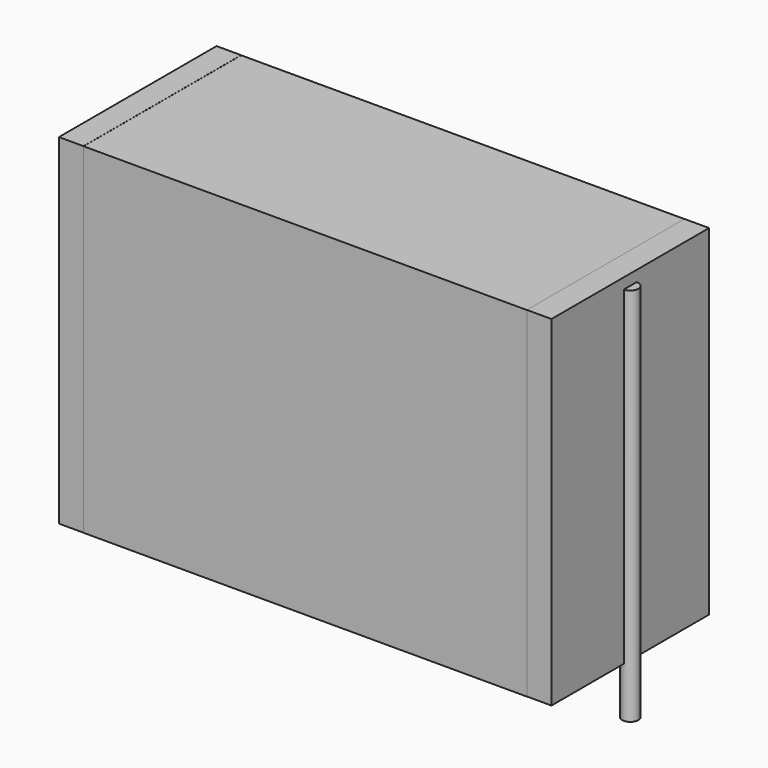
from build123d import *

# Parameters (mm, degrees)
SKETCH_W          = 24.75
SKETCH_H          = 11
PAD_DEPTH         = 19
SKETCH001_R       = 0.45
PAD001_DEPTH      = 18
PAD001_DEPTH_BACK = 3.2
SKETCH002_W       = 1.375
SKETCH002_H       = 11
PAD002_DEPTH      = 19


with BuildPart() as pad:
    # Sketch → Pad (new body)
    with BuildSketch(Plane.XY.offset(0.1)):
        with Locations((13.75, 0)):
            Rectangle(SKETCH_W, SKETCH_H)
    extrude(amount=PAD_DEPTH)


with BuildPart() as pad001:
    # Sketch001 → Pad001 (new body, two sides)
    with BuildSketch(Plane.XY.offset(0.5)) as pad001_sk:
        Circle(SKETCH001_R)
        with Locations((27.5, 0)):
            Circle(SKETCH001_R)
    extrude(amount=PAD001_DEPTH)
    extrude(pad001_sk.sketch, amount=-PAD001_DEPTH_BACK)


with BuildPart() as pad002:
    # Sketch002 → Pad002 (new body)
    with BuildSketch(Plane.XY.offset(0.105)):
        with Locations((0.6875, 0)):
            Rectangle(SKETCH002_W, SKETCH002_H)
        with Locations((26.8125, 0)):
            Rectangle(SKETCH002_W, SKETCH002_H)
    extrude(amount=PAD002_DEPTH)


solid = Compound([pad.part, pad001.part, pad002.part])
